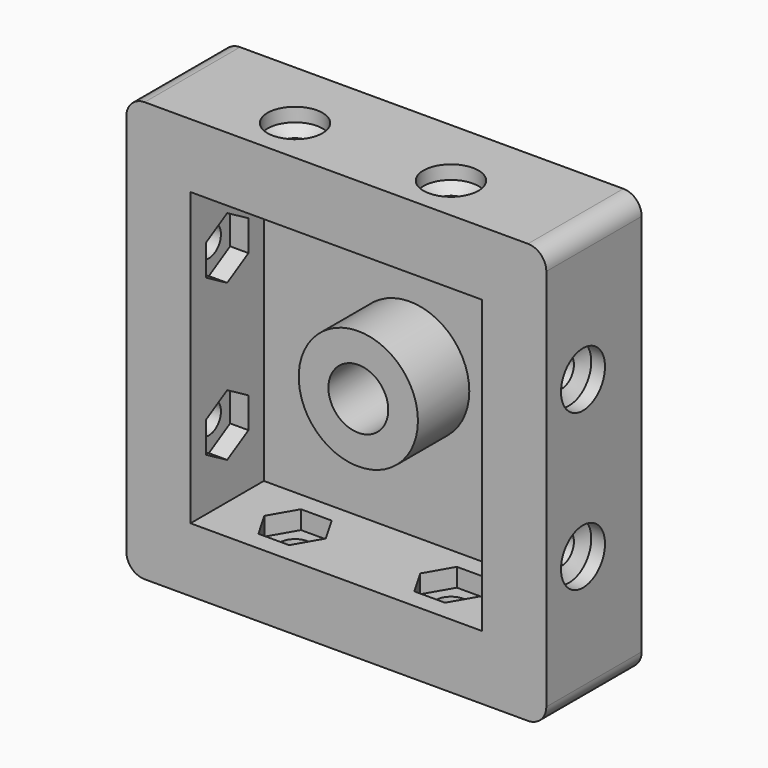
from build123d import *

# Parameters (mm, degrees)
F0_W      = 31.8
F0_H      = 31.8
F0_R      = 6.5
F1_DEPTH  = 3
F2_DEPTH  = 10
F0_W_2    = 45.8
F0_H_2    = 45.8
F3_DEPTH  = 13
F5_START  = -5
F5_DEPTH  = 3
F6_D      = 6
F6_DEPTH  = 1.5
F6_TIP    = 1.8025818571
F7_D      = 3.3
F7_DEPTH  = 10
F7_START  = 2.3111618
F7_TIP    = 0.9914200214
F9_START  = -5
F9_DEPTH  = 3
F11_START = -5
F11_DEPTH = 3
F12_D     = 3.3
F12_DEPTH = 10
F12_TIP   = 0.9914200214
F13_D     = 6
F13_DEPTH = 1.5
F13_TIP   = 1.8025818571
F14_D     = 6
F14_DEPTH = 1.5
F14_TIP   = 1.8025818571
F15_D     = 3.3
F15_DEPTH = 10
F15_START = 2.3111618
F15_TIP   = 0.9914200214
F17_START = -5
F17_DEPTH = 3
F18_D     = 3.3
F18_DEPTH = 10
F18_TIP   = 0.9914200214
F19_D     = 6
F19_DEPTH = 1.5
F19_TIP   = 1.8025818571
F20_R     = 2
F21_D     = 6.5278
F21_DEPTH = 15.81
F21_TIP   = 1.9611489744


with BuildPart() as f1:
    # F0 (on Front) → F1 (new body)
    with BuildSketch(Plane.XZ):
        Rectangle(F0_W, F0_H)
        Circle(F0_R, mode=Mode.SUBTRACT)
    extrude(amount=F1_DEPTH)

    # F0 (on Front) → F2 (join)
    with BuildSketch(Plane.XZ):
        Circle(F0_R)
    extrude(amount=F2_DEPTH)

    # F0 (on Front) → F3 (join)
    with BuildSketch(Plane.XZ):
        Rectangle(F0_W_2, F0_H_2)
        Rectangle(F0_W, F0_H, mode=Mode.SUBTRACT)
    extrude(amount=F3_DEPTH)

    # F4 (on face) → F5 (cut)
    with BuildSketch(Plane(origin=(0, 0, -22.9), x_dir=(1, 0, 0), z_dir=(0, 0, -1)).offset(F5_START)):
        Polygon((-6.8256842194, 5.1), (-5.1513684387, 8), (-6.8256842194, 10.9), (-10.1743157806, 10.9), (-11.8486315613, 8), (-10.1743157806, 5.1), align=None)
        Polygon((10.1743157806, 5.1), (11.8486315613, 8), (10.1743157806, 10.9), (6.8256842194, 10.9), (5.1513684387, 8), (6.8256842194, 5.1), align=None)
    extrude(amount=-F5_DEPTH, mode=Mode.SUBTRACT)

    # F6
    with Locations(Plane(origin=(0, 0, -22.9), x_dir=(1, 0, 0), z_dir=(0, 0, -1))):
        with Locations((-8.5, 8), (8.5, 8)):
            Hole(F6_D / 2, depth=F6_DEPTH)
            with Locations((0, 0, -(F6_DEPTH + F6_TIP / 2))):  # 118° drill point
                Cone(0, F6_D / 2, F6_TIP, mode=Mode.SUBTRACT)

    # F7
    # its depths count from where the whole tool has entered the part; down to there all is cleared
    with Locations(Plane(origin=(0, 0, -22.9), x_dir=(1, 0, 0), z_dir=(0, 0, -1)).offset(-F7_START)):
        with Locations((-8.5, 8), (8.5, 8)):
            Hole(F7_D / 2, depth=F7_DEPTH)
            with Locations((0, 0, -(F7_DEPTH + F7_TIP / 2))):  # 118° drill point
                Cone(0, F7_D / 2, F7_TIP, mode=Mode.SUBTRACT)

    # F8 (on face) → F9 (cut)
    with BuildSketch(Plane.YZ.offset(22.9).offset(F9_START)):
        Polygon((-5.1, -6.8256842194), (-8, -5.1513684387), (-10.9, -6.8256842194), (-10.9, -10.1743157806), (-8, -11.8486315613), (-5.1, -10.1743157806), align=None)
        Polygon((-5.1, 10.1743157806), (-8, 11.8486315613), (-10.9, 10.1743157806), (-10.9, 6.8256842194), (-8, 5.1513684387), (-5.1, 6.8256842194), align=None)
    extrude(amount=-F9_DEPTH, mode=Mode.SUBTRACT)

    # F10 (on face) → F11 (cut)
    with BuildSketch(Plane.XY.offset(22.9).offset(F11_START)):
        Polygon((6.8256842194, -5.1), (5.1513684387, -8), (6.8256842194, -10.9), (10.1743157806, -10.9), (11.8486315613, -8), (10.1743157806, -5.1), align=None)
        Polygon((-6.8256842194, -5.1), (-10.1743157806, -5.1), (-11.8486315613, -8), (-10.1743157806, -10.9), (-6.8256842194, -10.9), (-5.1513684387, -8), align=None)
    extrude(amount=-F11_DEPTH, mode=Mode.SUBTRACT)

    # F12
    with Locations(Plane.XY.offset(22.9)):
        with Locations((8.5, -8), (-8.5, -8)):
            Hole(F12_D / 2, depth=F12_DEPTH)
            with Locations((0, 0, -(F12_DEPTH + F12_TIP / 2))):  # 118° drill point
                Cone(0, F12_D / 2, F12_TIP, mode=Mode.SUBTRACT)

    # F13
    with Locations(Plane.XY.offset(22.9)):
        with Locations((8.5, -8), (-8.5, -8)):
            Hole(F13_D / 2, depth=F13_DEPTH)
            with Locations((0, 0, -(F13_DEPTH + F13_TIP / 2))):  # 118° drill point
                Cone(0, F13_D / 2, F13_TIP, mode=Mode.SUBTRACT)

    # F14
    with Locations(Plane.YZ.offset(22.9)):
        with Locations((-8, -8.5), (-8, 8.5)):
            Hole(F14_D / 2, depth=F14_DEPTH)
            with Locations((0, 0, -(F14_DEPTH + F14_TIP / 2))):  # 118° drill point
                Cone(0, F14_D / 2, F14_TIP, mode=Mode.SUBTRACT)

    # F15
    # its depths count from where the whole tool has entered the part; down to there all is cleared
    with Locations(Plane.YZ.offset(22.9).offset(-F15_START)):
        with Locations((-8, -8.5), (-8, 8.5)):
            Hole(F15_D / 2, depth=F15_DEPTH)
            with Locations((0, 0, -(F15_DEPTH + F15_TIP / 2))):  # 118° drill point
                Cone(0, F15_D / 2, F15_TIP, mode=Mode.SUBTRACT)

    # F16 (on face) → F17 (cut)
    with BuildSketch(Plane(origin=(-22.9, 0, 0), x_dir=(0, -1, 0), z_dir=(-1, 0, 0)).offset(F17_START)):
        Polygon((5.1, 10.1743157806), (5.1, 6.8256842194), (8, 5.1513684387), (10.9, 6.8256842194), (10.9, 10.1743157806), (8, 11.8486315613), align=None)
        Polygon((5.1, -6.8256842194), (5.1, -10.1743157806), (8, -11.8486315613), (10.9, -10.1743157806), (10.9, -6.8256842194), (8, -5.1513684387), align=None)
    extrude(amount=-F17_DEPTH, mode=Mode.SUBTRACT)

    # F18
    with Locations(Plane(origin=(-22.9, 0, 0), x_dir=(0, -1, 0), z_dir=(-1, 0, 0))):
        with Locations((8, 8.5), (8, -8.5)):
            Hole(F18_D / 2, depth=F18_DEPTH)
            with Locations((0, 0, -(F18_DEPTH + F18_TIP / 2))):  # 118° drill point
                Cone(0, F18_D / 2, F18_TIP, mode=Mode.SUBTRACT)

    # F19
    with Locations(Plane(origin=(-22.9, 0, 0), x_dir=(0, -1, 0), z_dir=(-1, 0, 0))):
        with Locations((8, 8.5), (8, -8.5)):
            Hole(F19_D / 2, depth=F19_DEPTH)
            with Locations((0, 0, -(F19_DEPTH + F19_TIP / 2))):  # 118° drill point
                Cone(0, F19_D / 2, F19_TIP, mode=Mode.SUBTRACT)

    # F20
    f20_edges = [f1.edges().sort_by_distance(p)[0] for p in [
        (22.9, -6.5, 22.9),
        (22.9, -6.5, -22.9),
        (-22.9, -6.5, -22.9),
        (-22.9, -6.5, 22.9),
    ]]
    fillet(f20_edges, radius=F20_R)

    # F21
    with Locations(Plane(origin=(0, 0, 0), x_dir=(1, 0, 0), z_dir=(0, 1, 0))):
        with Locations((0, 0)):
            Hole(F21_D / 2, depth=F21_DEPTH)
            with Locations((0, 0, -(F21_DEPTH + F21_TIP / 2))):  # 118° drill point
                Cone(0, F21_D / 2, F21_TIP, mode=Mode.SUBTRACT)


solid = f1.part
